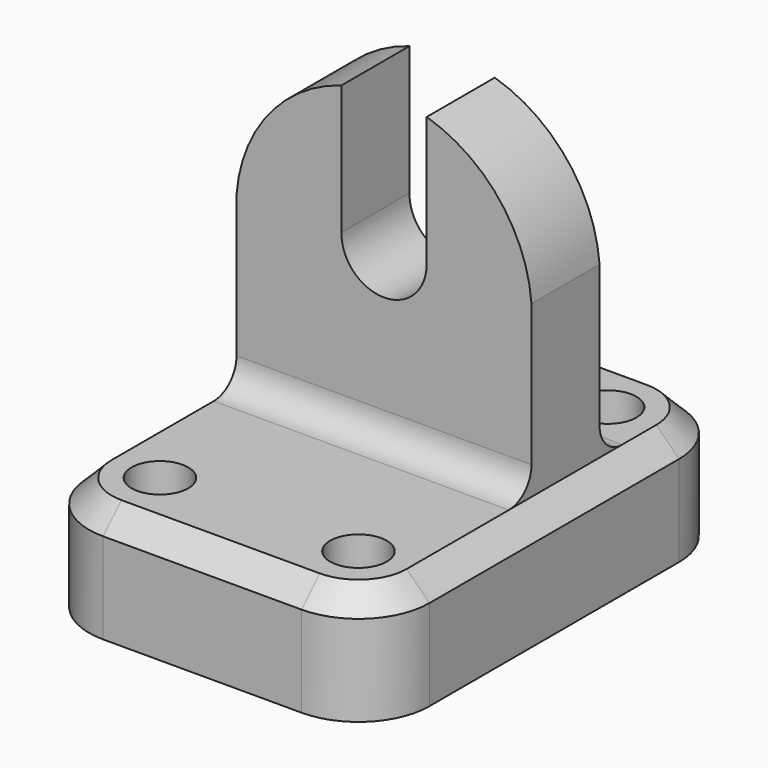
from build123d import *

# Parameters (mm, degrees)
F0_W      = 76.2
F0_H      = 101.6
F1_DEPTH  = 25.4
F2_R      = 15.875
F3_SIZE   = 5.08
F4_R      = 6.35
F5_DEPTH  = 25.4
F6_W      = 66.04
F6_H      = 19.05
F7_DEPTH  = 38.1
F9_DEPTH  = 19.05
F10_R     = 9.525
F11_DEPTH = 25.4
F13_DEPTH = 25.4
F14_R     = 6.35


with BuildPart() as f1:
    # F0 (on Top) → F1 (new body)
    with BuildSketch(Plane.XY):
        with Locations((18.6636974156, 4.0336294651)):
            Rectangle(F0_W, F0_H)
    extrude(amount=F1_DEPTH)

    # F2
    f2_edges = [f1.edges().sort_by_distance(p)[0] for p in [
        (-19.436303, -46.766371, 12.7),
        (56.763697, -46.766371, 12.7),
        (56.763697, 54.833629, 12.7),
        (-19.436303, 54.833629, 12.7),
    ]]
    fillet(f2_edges, radius=F2_R)

    # F3
    f3_edges = [f1.edges().sort_by_distance(p)[0] for p in [
        (18.663697, 54.833629, 25.4),
        (-14.786623, 50.18395, 25.4),
        (-19.436303, 4.033629, 25.4),
        (-14.786623, -42.116691, 25.4),
        (18.663697, -46.766371, 25.4),
        (52.114018, -42.116691, 25.4),
        (56.763697, 4.033629, 25.4),
        (52.114018, 50.18395, 25.4),
    ]]
    chamfer(f3_edges, length=F3_SIZE)

    # F4 (on face) → F5 (cut)
    with BuildSketch(Plane.XY.offset(25.4)):
        with Locations((-3.5613025844, -30.8913705349)):
            Circle(F4_R)
        with Locations((-3.5613025844, 38.9586294651)):
            Circle(F4_R)
        with Locations((40.8886974156, 38.9586294651)):
            Circle(F4_R)
        with Locations((40.8886974156, -30.8913705349)):
            Circle(F4_R)
    extrude(amount=-F5_DEPTH, mode=Mode.SUBTRACT)

    # F6 (on face) → F7 (join)
    with BuildSketch(Plane.XY.offset(25.4)):
        with Locations((18.6636974156, 13.5586294651)):
            Rectangle(F6_W, F6_H)
    extrude(amount=F7_DEPTH)

    # F8 (on face) → F9 (join)
    with BuildSketch(Plane.XZ.offset(-4.0336294651)):
        with BuildLine():
            Line((-14.3563025844, 63.5), (51.6836974156, 63.5))
            ThreePointArc((51.6836974156, 63.5), (18.6636974156, 94.0767991723), (-14.3563025844, 63.5))
        make_face()
    extrude(amount=-F9_DEPTH)

    # F10 (on face) → F11 (cut)
    with BuildSketch(Plane.XZ.offset(-4.0336294651)):
        with Locations((18.6636974156, 63.5)):
            Circle(F10_R)
    extrude(amount=-F11_DEPTH, mode=Mode.SUBTRACT)

    # F12 (on face) → F13 (cut)
    with BuildSketch(Plane.XZ.offset(-4.0336294651)):
        Polygon((9.1407453584, 94.5832133293), (9.1407453584, 63.5), (28.1886974156, 63.5), (28.2250996679, 63.5), (28.2250996679, 94.5832133293), align=None)
    extrude(amount=-F13_DEPTH, mode=Mode.SUBTRACT)

    # F14
    f14_edges = [f1.edges().sort_by_distance(p)[0] for p in [
        (18.663697, 4.033629, 25.4),
        (18.663697, 23.083629, 25.4),
    ]]
    fillet(f14_edges, radius=F14_R)


solid = f1.part
